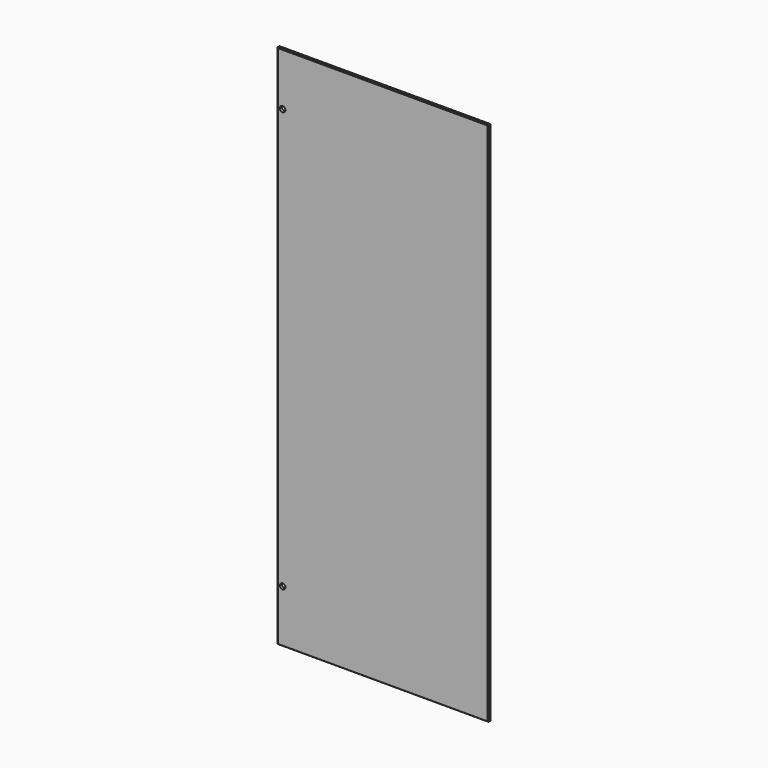
from build123d import *

# Parameters (mm, degrees)
F0_W     = 800
F0_H     = 1994
F1_DEPTH = 10
F2_SIZE  = 2
F3_R     = 10.5
F4_DEPTH = 25


with BuildPart() as f1:
    # F0 (on Front) → F1 (new body)
    with BuildSketch(Plane.XZ):
        with Locations((400, 997)):
            Rectangle(F0_W, F0_H)
    extrude(amount=F1_DEPTH)

    # F2
    f2_edges = [f1.edges().sort_by_distance(p)[0] for p in [
        (0, -10, 997),
        (400, -10, 0),
        (800, -10, 997),
        (400, -10, 1994),
    ]]
    chamfer(f2_edges, length=F2_SIZE)

    # F3 (on face) → F4 (cut)
    with BuildSketch(Plane.XZ.offset(10)):
        with Locations((20, 1794)):
            Circle(F3_R)
        with Locations((20, 200)):
            Circle(F3_R)
    extrude(amount=-F4_DEPTH, mode=Mode.SUBTRACT)


solid = f1.part
